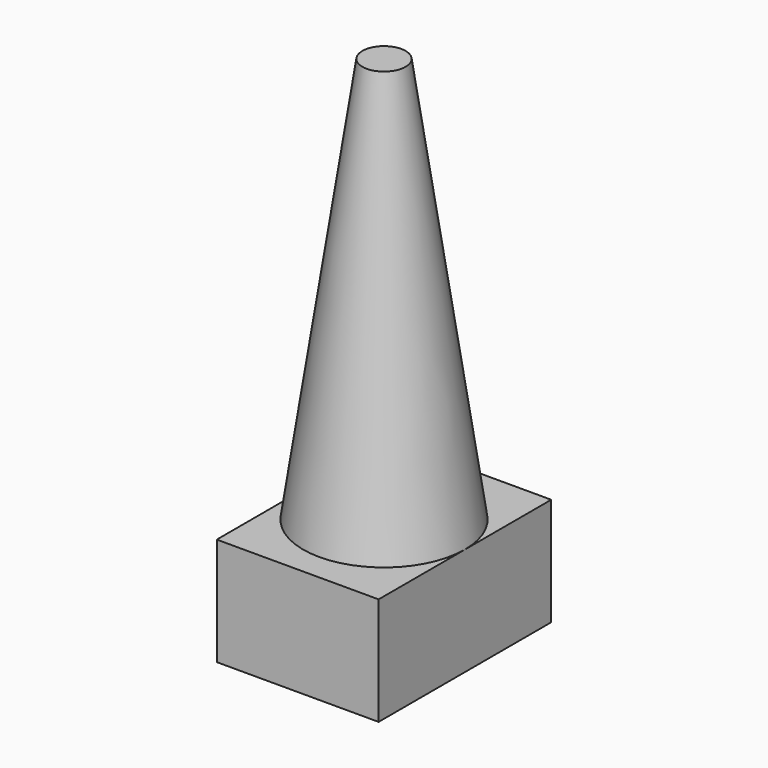
from build123d import *

# Parameters (mm, degrees)
F0_W     = 75
F0_H     = 100
F1_DEPTH = 50


with BuildPart() as f1:
    # F0 (on Top) → F1 (new body)
    with BuildSketch(Plane.XY):
        Rectangle(F0_W, F0_H)
    extrude(amount=-F1_DEPTH)

    # F2 (on Right) → F3 (revolve)
    with BuildSketch(Plane.YZ):
        Polygon((0, 0), (0, 188), (-10, 188), (-37.5, 0), align=None)
    revolve(axis=Axis((0, 0, 94), (0, 0, -1)))


solid = f1.part
